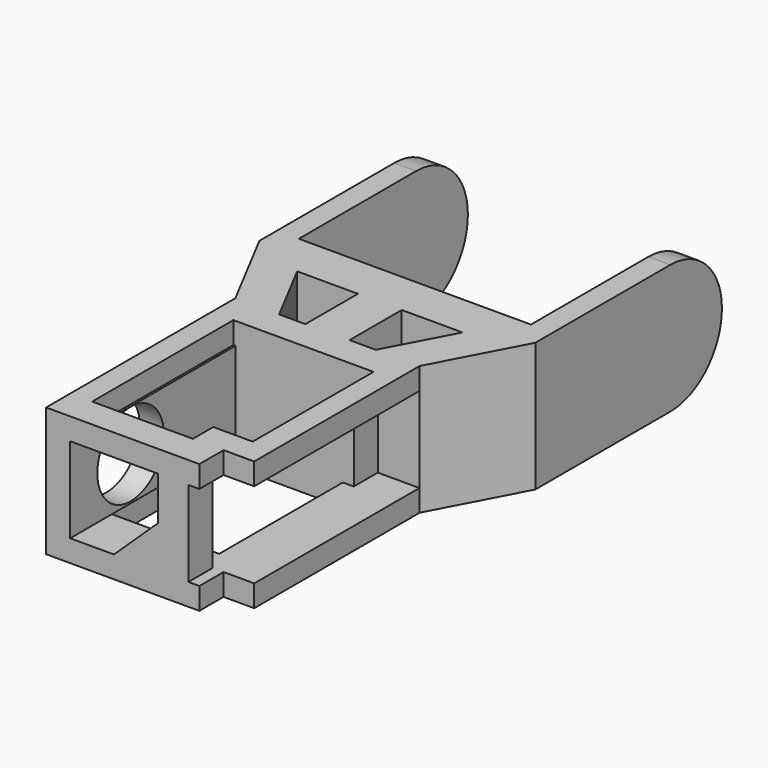
from build123d import *

# Parameters (mm, degrees)
PAD_DEPTH       = 29.5
POCKET_DEPTH    = 19.5
POCKET001_DEPTH = 6.9
POCKET002_DEPTH = 5
POCKET003_DEPTH = 5
SKETCH006_R     = 9.5
POCKET004_DEPTH = 56
POCKET005_DEPTH = 100


with BuildPart() as part:
    # Sketch → Pad (new body)
    with BuildSketch(Plane.XY):
        Polygon((-31.5, 98.35), (-31.5, 45.1), (-21, 25.1), (-21, -28.9), (14, -28.9), (14, -22), (21, -22), (21, 25.2), (31.5, 45.1), (31.5, 98.35), (26.5, 98.35), (26.5, 50.1), (-26.5, 50.1), (-26.5, 98.35), align=None)
        Polygon((-18.875, 40.1), (-11, 25.1), (-5, 25.1), (-5, 40.1), align=None, mode=Mode.SUBTRACT)
        Polygon((5, 40.1), (5, 25.2), (11, 25.2), (18.861809, 40.1), align=None, mode=Mode.SUBTRACT)
    extrude(amount=PAD_DEPTH)

    # Sketch001 → Pocket (cut)
    with BuildSketch(Plane.XY.offset(5)):
        Polygon((-15.5, 18.3), (-15.5, -22), (11.5, -22), (11.5, -28.9), (14, -28.9), (14, -22), (21, -22), (21, -18), (27.5, -18), (27.5, -12), (21, -12), (21, 12.3), (21, 12.3), (21, 18.3), (21, 18.3), (21, 25.15), (11.5, 25.15), (11.5, 18.3), align=None)
    extrude(amount=POCKET_DEPTH, mode=Mode.SUBTRACT)

    # Sketch003 → Pocket001 (cut)
    with BuildSketch(Plane(origin=(-15.5, -28.9, 5), x_dir=(1, 0, 0), z_dir=(0, -1, 0))):
        Polygon((20.030856, 9.535838), (10, 0), (0, 0), (0, 19.5), (20, 19.5), align=None)
    extrude(amount=-POCKET001_DEPTH, mode=Mode.SUBTRACT)

    # Sketch004 → Pocket002 (cut)
    with BuildSketch(Plane.XY.offset(5)):
        Polygon((-16, 18.3), (-16, -17), (9, -17), (9, -16.114332), (9, 18.3), align=None)
    extrude(amount=-POCKET002_DEPTH, mode=Mode.SUBTRACT)

    # Sketch005 → Pocket003 (cut)
    with BuildSketch(Plane.XY.offset(29.5)):
        Polygon((-16, 18.3), (-16, -22), (7, -22), (7, -16.175392), (16, -16.175392), (16, 18.3), align=None)
    extrude(amount=-POCKET003_DEPTH, mode=Mode.SUBTRACT)

    # Sketch006 → Pocket004 (cut)
    with BuildSketch(Plane(origin=(-22, -27.65, 3), x_dir=(0, 1, 0), z_dir=(1, 0, 0))):
        with Locations((16.005131, 11.909992)):
            Circle(SKETCH006_R)
    extrude(amount=POCKET004_DEPTH, mode=Mode.SUBTRACT)

    # Sketch007 → Pocket005 (cut)
    with BuildSketch(Plane(origin=(-50, 83.6, 14.75), x_dir=(0, 1, 0), z_dir=(1, 0, 0))):
        with BuildLine():
            ThreePointArc((4.2e-05, -14.75), (14.75, 3.4e-05), (-2.6e-05, 14.75))
            Line((-2.6e-05, 14.75), (14.750042, 14.750026))
            Line((14.750042, 14.750026), (14.750042, -14.75))
            Line((14.750042, -14.75), (4.2e-05, -14.75))
        make_face()
    extrude(amount=POCKET005_DEPTH, mode=Mode.SUBTRACT)


solid = part.part
